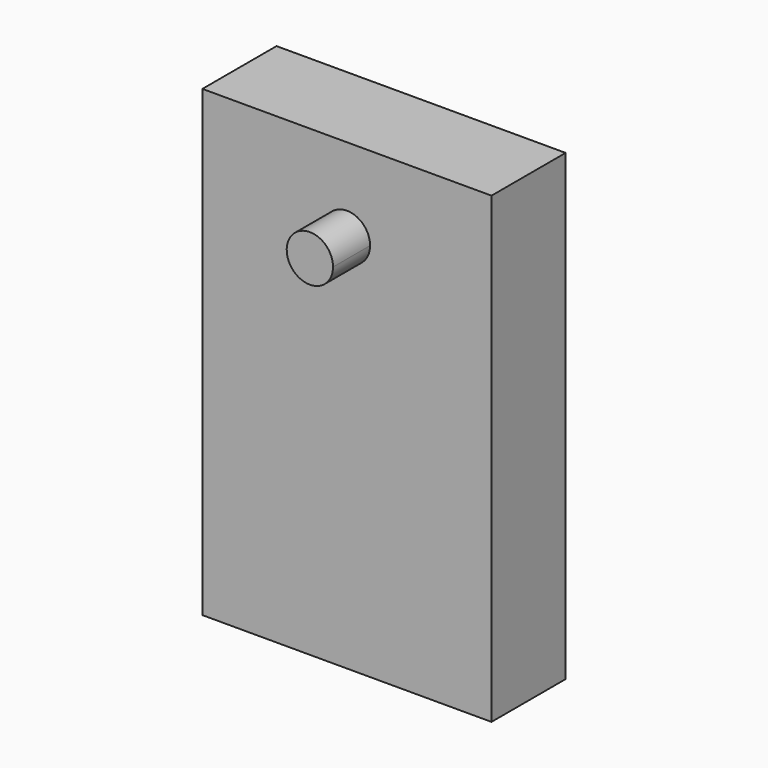
from build123d import *

# Parameters (mm, degrees)
F1_DEPTH = 25.4
F3_DEPTH = 12.7
F5_DEPTH = 12.7


with BuildPart() as f1:
    # F0 (on Front) → F1 (new body)
    with BuildSketch(Plane.XZ):
        Polygon((69.85, 127), (19.05, 127), (0, 127), (0, 0), (39.624, 0), (44.45, 0), (79.248, 0), (79.248, 127), align=None)
    extrude(amount=F1_DEPTH)

    # F2 (on face) → F3 (join)
    with BuildSketch(Plane.XZ.offset(25.4)):
        with BuildLine():
            ThreePointArc((39.624, 97.79), (44.114128, 99.649872), (45.974, 104.14))
            ThreePointArc((45.974, 104.14), (35.133872, 108.630128), (39.624, 97.79))
        make_face()
    extrude(amount=F3_DEPTH)

    # F4 (on face) → F5 (cut)
    with BuildSketch(Plane(origin=(0, 0, 0), x_dir=(1, 0, 0), z_dir=(0, 0, -1))):
        with BuildLine():
            Line((16.637, 12.7), (19.812, 12.7))
            Line((19.812, 12.7), (22.987, 12.7))
            ThreePointArc((22.987, 12.7), (19.812, 15.875), (16.637, 12.7))
        make_face()
        with BuildLine():
            Line((22.987, 12.7), (19.812, 12.7))
            Line((19.812, 12.7), (16.637, 12.7))
            ThreePointArc((16.637, 12.7), (19.812, 9.525), (22.987, 12.7))
        make_face()
        with BuildLine():
            ThreePointArc((62.611, 12.7), (59.436, 15.875), (56.261, 12.7))
            Line((56.261, 12.7), (59.436, 12.7))
            Line((59.436, 12.7), (62.611, 12.7))
        make_face()
        with BuildLine():
            Line((59.436, 12.7), (56.261, 12.7))
            ThreePointArc((56.261, 12.7), (59.436, 9.525), (62.611, 12.7))
            Line((62.611, 12.7), (59.436, 12.7))
        make_face()
    extrude(amount=-F5_DEPTH, mode=Mode.SUBTRACT)


solid = f1.part
